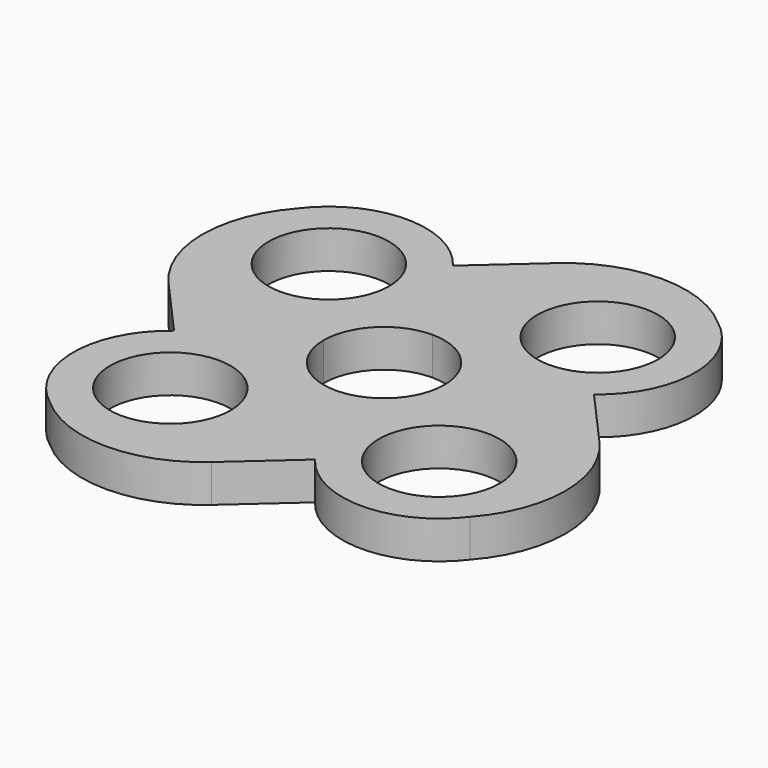
from build123d import *

# Parameters (mm, degrees)
F0_R     = 11.2
F1_DEPTH = 7


with BuildPart() as f1:
    # F0 (on Top) → F1 (new body)
    with BuildSketch(Plane.XY):
        with BuildLine():
            Line((11.2, -30), (11.2, 0))
            ThreePointArc((11.2, 0), (7.919596, -7.919596), (0, -11.2))
            Line((0, -11.2), (-30, -11.2))
            ThreePointArc((-30, -11.2), (-37.185333, -25.588988), (-30, -39.977976))
            Line((-30, -39.977976), (0, -39.977976))
            Line((0, -39.977976), (11.2, -30))
        make_face()
        with Locations((-19.185333, -25.588988)):
            Circle(F0_R, mode=Mode.SUBTRACT)
        with BuildLine():
            ThreePointArc((0, 11.2), (7.919596, 7.919596), (11.2, 0))
            Line((11.2, 0), (11.2, -30))
            ThreePointArc((11.2, -30), (25.588988, -37.185333), (39.977976, -30))
            Line((39.977976, -30), (39.977976, 0))
            Line((39.977976, 0), (30, 11.2))
            Line((30, 11.2), (0, 11.2))
        make_face()
        with Locations((25.588988, -19.185333)):
            Circle(F0_R, mode=Mode.SUBTRACT)
        with BuildLine():
            ThreePointArc((-11.2, 0), (-7.919596, 7.919596), (0, 11.2))
            Line((0, 11.2), (30, 11.2))
            ThreePointArc((30, 11.2), (37.185333, 25.588988), (30, 39.977976))
            Line((30, 39.977976), (0, 39.977976))
            Line((0, 39.977976), (-11.2, 30))
            Line((-11.2, 30), (-11.2, 0))
        make_face()
        with Locations((19.185333, 25.588988)):
            Circle(F0_R, mode=Mode.SUBTRACT)
        with BuildLine():
            Line((-30, -11.2), (0, -11.2))
            ThreePointArc((0, -11.2), (-7.919596, -7.919596), (-11.2, 0))
            Line((-11.2, 0), (-11.2, 30))
            ThreePointArc((-11.2, 30), (-25.588988, 37.185333), (-39.977976, 30))
            Line((-39.977976, 30), (-39.977976, 0))
            Line((-39.977976, 0), (-30, -11.2))
        make_face()
        with Locations((-25.588988, 19.185333)):
            Circle(F0_R, mode=Mode.SUBTRACT)
        with BuildLine():
            ThreePointArc((-30, -39.977976), (-15, -45.690557), (0, -39.977976))
            Line((0, -39.977976), (-30, -39.977976))
        make_face()
        with BuildLine():
            Line((39.977976, 0), (39.977976, -30))
            ThreePointArc((39.977976, -30), (45.690557, -15), (39.977976, 0))
        make_face()
        with BuildLine():
            Line((0, 39.977976), (30, 39.977976))
            ThreePointArc((30, 39.977976), (15, 45.690557), (0, 39.977976))
        make_face()
        with BuildLine():
            ThreePointArc((-39.977976, 30), (-45.690557, 15), (-39.977976, 0))
            Line((-39.977976, 0), (-39.977976, 30))
        make_face()
    extrude(amount=F1_DEPTH)


solid = f1.part
